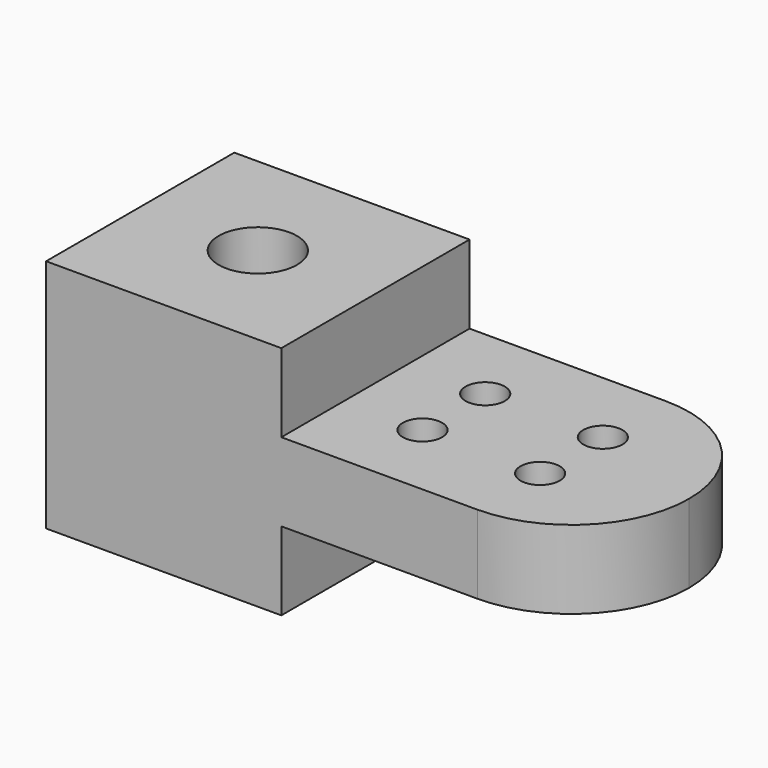
from build123d import *

# Parameters (mm, degrees)
F1_DEPTH = 38.1
F3_DEPTH = 12.7
F4_R     = 3.175
F5_DEPTH = 12.7
F6_R     = 6.35
F7_DEPTH = 38.1


with BuildPart() as f1:
    # F0 (on Front) → F1 (new body)
    with BuildSketch(Plane.XZ):
        Polygon((0, 38.1), (0, 0), (38.1, 0), (38.1, 12.7), (88.9, 12.7), (88.9, 25.4), (38.1, 25.4), (38.1, 38.1), align=None)
    extrude(amount=F1_DEPTH)

    # F2 (on face) → F3 (cut)
    with BuildSketch(Plane.XY.offset(25.4)):
        with BuildLine():
            ThreePointArc((88.9, -19.05), (83.320384, -32.520384), (69.85, -38.1))
            Line((69.85, -38.1), (88.9, -38.1))
            Line((88.9, -38.1), (88.9, -19.05))
        make_face()
        with BuildLine():
            ThreePointArc((69.85, 0), (83.320384, -5.579616), (88.9, -19.05))
            Line((88.9, -19.05), (88.9, 0))
            Line((88.9, 0), (69.85, 0))
        make_face()
    extrude(amount=-F3_DEPTH, mode=Mode.SUBTRACT)

    # F4 (on face) → F5 (cut)
    with BuildSketch(Plane.XY.offset(25.4)):
        with Locations((50.8, -25.4)):
            Circle(F4_R)
        with Locations((50.8, -12.7)):
            Circle(F4_R)
        with Locations((69.85, -25.4)):
            Circle(F4_R)
        with Locations((69.85, -12.7)):
            Circle(F4_R)
    extrude(amount=-F5_DEPTH, mode=Mode.SUBTRACT)

    # F6 (on face) → F7 (cut)
    with BuildSketch(Plane.XY.offset(38.1)):
        with Locations((19.05, -19.05)):
            Circle(F6_R)
    extrude(amount=-F7_DEPTH, mode=Mode.SUBTRACT)


solid = f1.part
